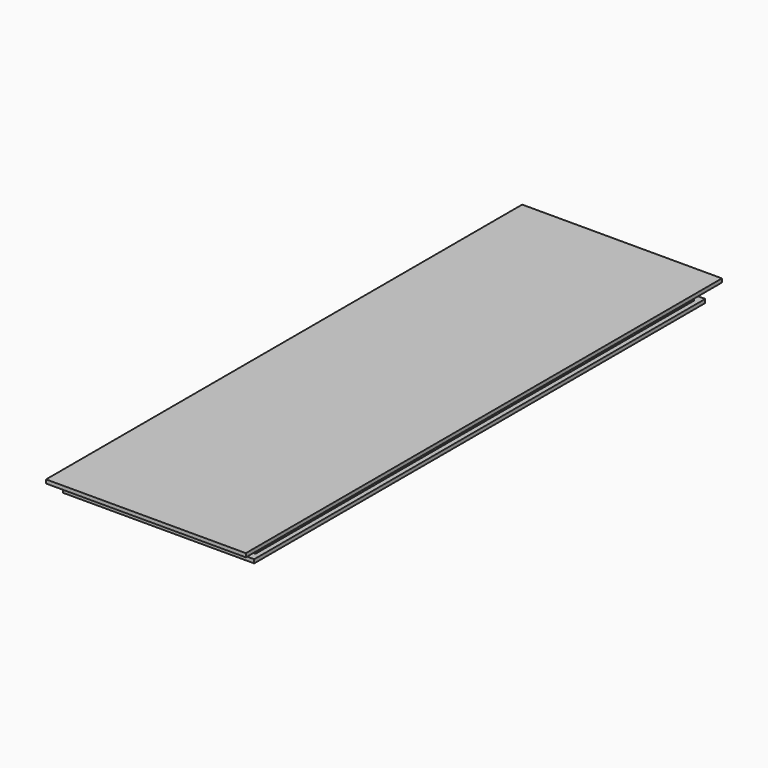
from build123d import *

# Parameters (mm, degrees)
F1_DEPTH = 114.3
F2_DEPTH = 120.65
F0_W     = 36.8
F0_H     = 3.8
F3_DEPTH = 111.125
F4_W     = 3.5
F4_H     = 7.7
F5_DEPTH = 4


with BuildPart() as f1:
    # F0 (on Front) → F1 (new body, symmetric)
    with BuildSketch(Plane.XZ):
        Polygon((50.201469934, 10.2439912885), (13.401469934, 10.2439912885), (13.401469934, 8.7439912885), (52.201469934, 8.7439912885), (52.201469934, 10.2439912885), align=None)
        Polygon((13.401469934, 8.7439912885), (13.401469934, 10.2439912885), (-23.398530066, 10.2439912885), (-25.398530066, 10.2439912885), (-25.398530066, 8.7439912885), align=None)
    extrude(amount=F1_DEPTH, both=True)



with BuildPart() as f2:
    # F0 (on Front) → F2 (new body, symmetric)
    with BuildSketch(Plane.XZ):
        Polygon((13.401469934, 15.5439912885), (-27.098530066, 15.5439912885), (-27.098530066, 14.0439912885), (-23.398530066, 14.0439912885), (13.401469934, 14.0439912885), align=None)
        Polygon((53.901469934, 15.5439912885), (13.401469934, 15.5439912885), (13.401469934, 14.0439912885), (50.201469934, 14.0439912885), (53.901469934, 14.0439912885), align=None)
    extrude(amount=F2_DEPTH, both=True)


with BuildPart() as f1_1:
    add(f1.part)

    add(f2.part)  # F3 merges F2
    # F0 (on Front) → F3 (join, symmetric)
    with BuildSketch(Plane.XZ):
        with Locations((-4.998530066, 12.1439912885)):
            Rectangle(F0_W, F0_H)
        with Locations((31.801469934, 12.1439912885)):
            Rectangle(F0_W, F0_H)
    extrude(amount=F3_DEPTH, both=True)

    # F4 (on face) → F5 (join)
    with BuildSketch(Plane(origin=(0, 0, 8.7439912885), x_dir=(1, 0, 0), z_dir=(0, 0, -1))):
        with Locations((-23.648530066, 77.15)):
            Rectangle(F4_W, F4_H)
        with Locations((-27.148530066, 77.15)):
            Rectangle(F4_W, F4_H)
    extrude(amount=F5_DEPTH)


solid = f1_1.part
